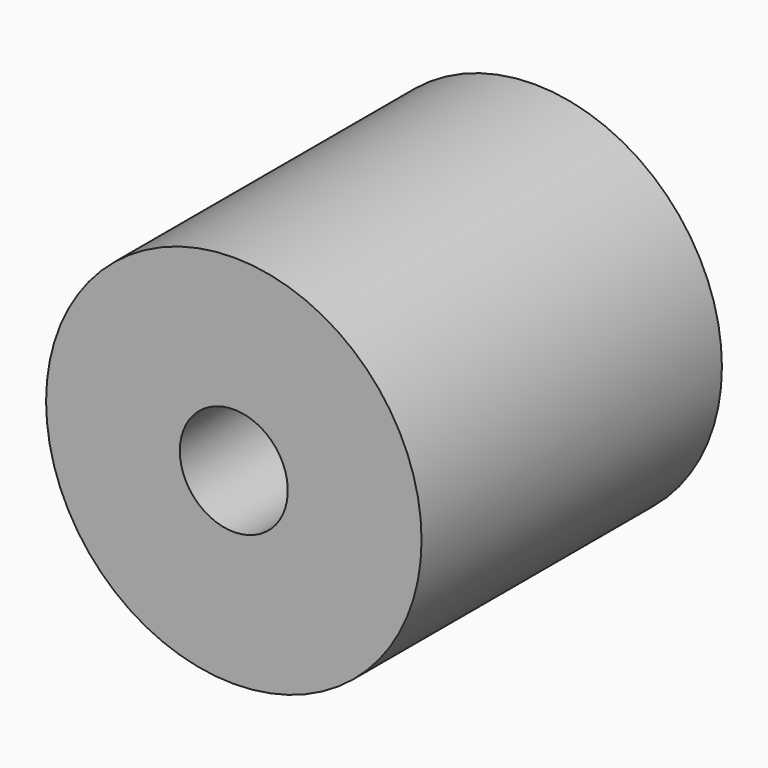
from build123d import *

# Parameters (mm, degrees)
F0_R           = 12.7
F1_DEPTH       = 25.4
F2_D           = 7.3025
F2_CBORE_D     = 13.0175
F2_CBORE_DEPTH = 2.8448


with BuildPart() as f1:
    # F0 (on Front) → F1 (new body)
    with BuildSketch(Plane.XZ):
        Circle(F0_R)
    extrude(amount=F1_DEPTH)

    # F2 (through all)
    with Locations(Plane(origin=(0, 0, 0), x_dir=(1, 0, 0), z_dir=(0, 1, 0))):
        with Locations((0, 0)):
            CounterBoreHole(F2_D / 2, F2_CBORE_D / 2, F2_CBORE_DEPTH)


solid = f1.part
